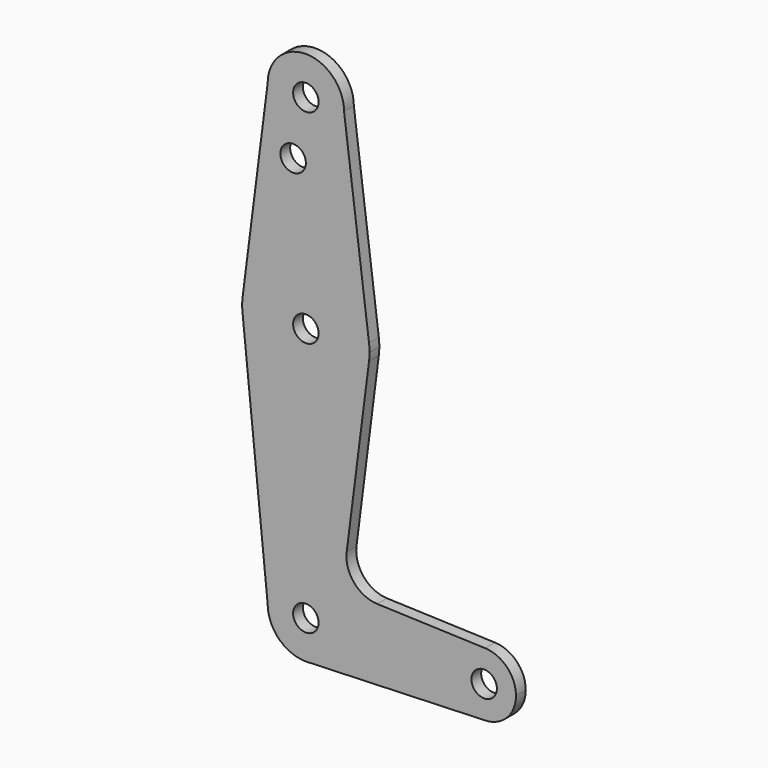
from build123d import *

# Parameters (mm, degrees)
F0_R     = 3.175
F1_DEPTH = 3.048


with BuildPart() as f1:
    # F0 (on Front) → F1 (new body)
    with BuildSketch(Plane.XZ):
        with BuildLine():
            ThreePointArc((-9.525, 114.3), (0, 104.775), (9.525, 114.3))
            ThreePointArc((9.525, 114.3), (0, 123.825), (-9.525, 114.3))
        make_face()
        with Locations((0, 114.3)):
            Circle(F0_R, mode=Mode.SUBTRACT)
        with BuildLine():
            Line((15.747457, 65.508289), (9.525, 114.3))
            ThreePointArc((9.525, 114.3), (0, 104.775), (-9.525, 114.3))
            Line((-9.525, 114.3), (-15.747457, 65.508289))
            ThreePointArc((-15.747457, 65.508289), (0, 79.375), (15.747457, 65.508289))
        make_face()
        with Locations((-3.175, 99.886943)):
            Circle(F0_R, mode=Mode.SUBTRACT)
        with BuildLine():
            ThreePointArc((15.875, 63.5), (15.843082, 64.506168), (15.747457, 65.508289))
            ThreePointArc((15.747457, 65.508289), (0, 79.375), (-15.747457, 65.508289))
            ThreePointArc((-15.747457, 65.508289), (-15.875, 63.5), (-15.747457, 61.491711))
            ThreePointArc((-15.747457, 61.491711), (0, 47.625), (15.747457, 61.491711))
            ThreePointArc((15.747457, 61.491711), (15.843082, 62.493832), (15.875, 63.5))
        make_face()
        with Locations((0, 63.5)):
            Circle(F0_R, mode=Mode.SUBTRACT)
        with BuildLine():
            ThreePointArc((15.747457, 61.491711), (0, 47.625), (-15.747457, 61.491711))
            Line((-15.747457, 61.491711), (-9.525, 0))
            ThreePointArc((-9.525, 0), (0, 9.525), (9.525, 0))
            ThreePointArc((9.525, 0), (6.97129, -6.490511), (0.67949, -9.500732))
            Line((0.67949, -9.500732), (44.45, -7.9375))
            ThreePointArc((44.45, -7.9375), (36.513756, 0.141225), (44.732405, 7.932475))
            Line((44.732405, 7.932475), (17.784333, 8.891857))
            ThreePointArc((17.784333, 8.891857), (12.008013, 11.68998), (10.180863, 17.842775))
            Line((10.180863, 17.842775), (15.747457, 61.491711))
        make_face()
        with BuildLine():
            ThreePointArc((9.525, 0), (0, 9.525), (-9.525, 0))
            ThreePointArc((-9.525, 0), (-6.735192, -6.735192), (0, -9.525))
            Line((0, -9.525), (0.67949, -9.500732))
            ThreePointArc((0.67949, -9.500732), (6.97129, -6.490511), (9.525, 0))
        make_face()
        Circle(F0_R, mode=Mode.SUBTRACT)
        with BuildLine():
            Line((0.67949, -9.500732), (0, -9.525))
            ThreePointArc((0, -9.525), (0.339962, -9.518931), (0.67949, -9.500732))
        make_face()
        with BuildLine():
            ThreePointArc((52.3875, 0), (50.161633, 5.51191), (44.732405, 7.932475))
            ThreePointArc((44.732405, 7.932475), (36.513756, 0.141225), (44.45, -7.9375))
            ThreePointArc((44.45, -7.9375), (50.06266, -5.61266), (52.3875, 0))
        make_face()
        with Locations((44.45, 0)):
            Circle(F0_R, mode=Mode.SUBTRACT)
    extrude(amount=F1_DEPTH)


solid = f1.part
